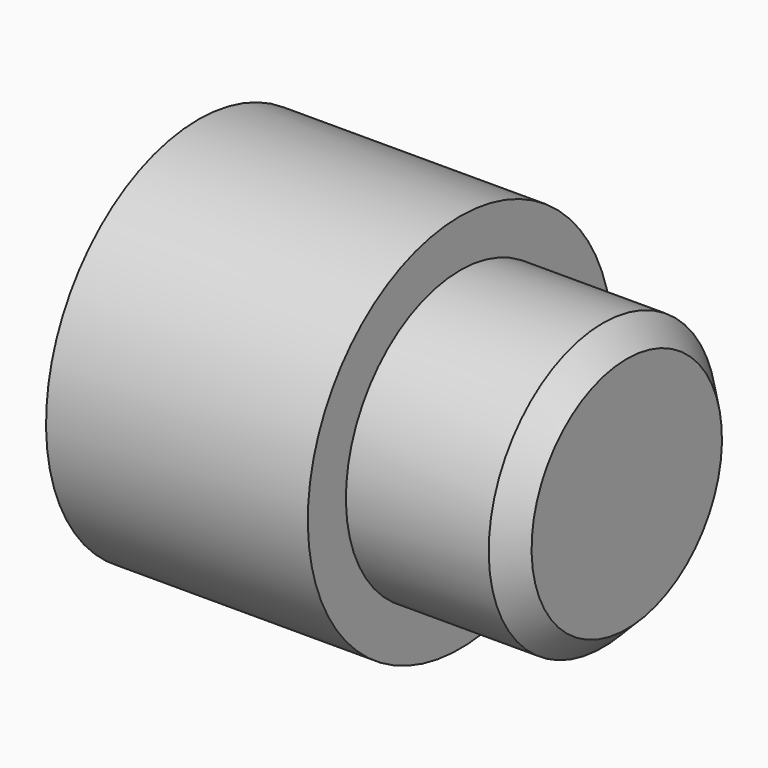
from build123d import *

# Parameters (mm, degrees)
F2_SIZE = 0.5


with BuildPart() as f1:
    # F0 (on Front) → F1 (revolve)
    with BuildSketch(Plane.XZ):
        Polygon((-4.5, 0), (0, 0), (0, 3), (-3.5, 3), (-3.5, 4), (-9, 4), (-9, 2.35), (-4.5, 2.35), align=None)
    revolve(axis=Axis((0.593239, 0, 0), (1, 0, 0)))

    # F2
    f2_edges = [f1.edges().sort_by_distance(p)[0] for p in [
        (0, 0, -3),
    ]]
    chamfer(f2_edges, length=F2_SIZE)


solid = f1.part
